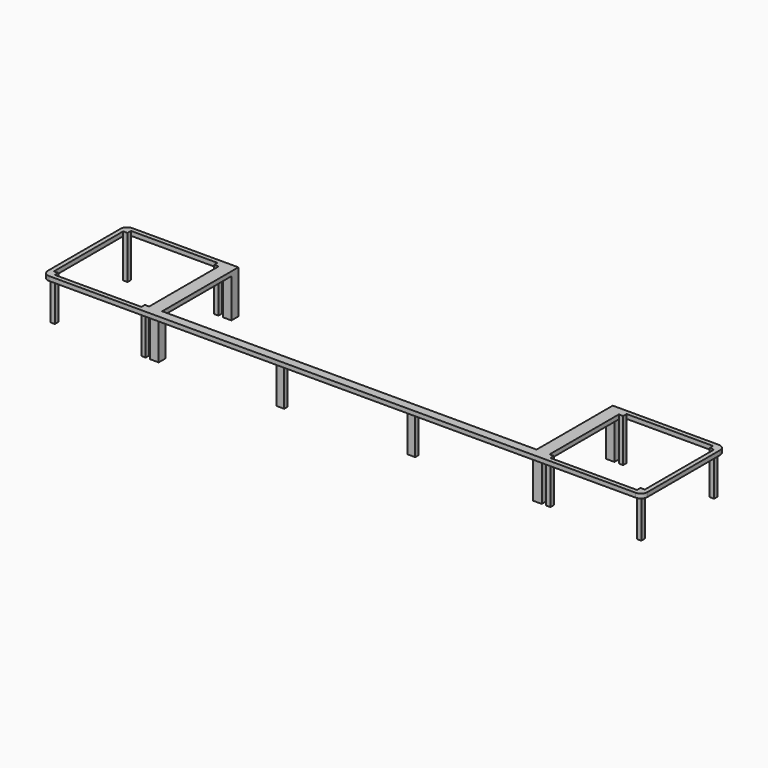
from build123d import *

# Parameters (mm, degrees)
F0_W     = 44
F0_H     = 44
F1_DEPTH = 17
F2_W     = 2
F2_H     = 2
F2_W_2   = 4
F2_H_2   = 4
F2_W_3   = 3.5
F3_DEPTH = 20
F4_W     = 4
F4_H     = 38
F4_W_2   = 86.5
F4_H_2   = 2
F5_DEPTH = 2
F7_R     = 3
F8_R     = 3
F9_DEPTH = 15


with BuildPart() as f1:
    # F0 (on Top) → F1 (new body)
    with BuildSketch(Plane.XY):
        Polygon((-138.5, 0), (-90.5, 0), (0, 0), (0, 2), (-90.5, 2), (-90.5, 48), (-138.5, 48), align=None)
        with Locations((-114.5, 24)):
            Rectangle(F0_W, F0_H, mode=Mode.SUBTRACT)
    extrude(amount=F1_DEPTH)

    # F2 (on face) → F3 (join)
    with BuildSketch(Plane.XY.offset(17)):
        with Locations((-135.5, 3)):
            Rectangle(F2_W, F2_H)
        with Locations((-135.5, 45)):
            Rectangle(F2_W, F2_H)
        with Locations((-93.5, 3)):
            Rectangle(F2_W, F2_H)
        with Locations((-93.5, 45)):
            Rectangle(F2_W, F2_H)
        with Locations((-88.5, 46)):
            Rectangle(F2_W_2, F2_H_2)
        with Locations((-88.5, 4)):
            Rectangle(F2_W_2, F2_H_2)
        with Locations((-30.25, 3)):
            Rectangle(F2_W_3, F2_H)
    extrude(amount=-F3_DEPTH)

    # F4 (on face) → F5 (join)
    with BuildSketch(Plane.XY.offset(17)):
        with Locations((-88.5, 25)):
            Rectangle(F4_W, F4_H)
        with Locations((-43.25, 3)):
            Rectangle(F4_W_2, F4_H_2)
    extrude(amount=-F5_DEPTH)

    # F6: F1 across face


with BuildPart() as f1_1:
    add(f1.part)
    add(f1.part.mirror(Plane(origin=(0, 1.2105263158, 9.2894736842), x_dir=(0, 1, 0), z_dir=(1, 0, 0))))

    # F7
    f7_edges = [f1_1.edges().sort_by_distance(p)[0] for p in [
        (-138.5, 0, 8.5),
        (138.5, 0, 8.5),
    ]]
    fillet(f7_edges, radius=F7_R)

    # F8
    f8_edges = [f1_1.edges().sort_by_distance(p)[0] for p in [
        (-138.5, 48, 8.5),
        (138.5, 48, 8.5),
    ]]
    fillet(f8_edges, radius=F8_R)

    # F9 (cut): a face of the model
    f9_faces = [f1_1.faces().sort_by_distance(p)[0] for p in [
        (-138.2188719153, 24, 0),
    ]]
    extrude(f9_faces, amount=-F9_DEPTH, mode=Mode.SUBTRACT)


solid = f1_1.part
